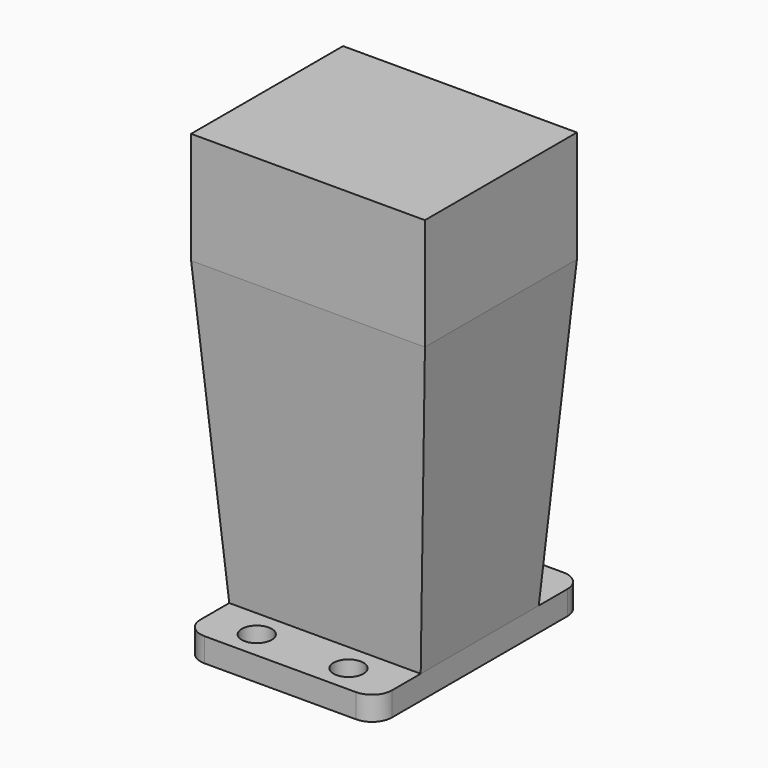
from build123d import *

# Parameters (mm, degrees)
F0_W     = 48
F0_H     = 65
F1_DEPTH = 6
F2_W     = 24
F2_H     = 18.5
F3_DEPTH = 76
F3_TAPER = -4
F4_DEPTH = 28
F5_W     = 47
F5_H     = 24
F6_DEPTH = 43
F8_R     = 3.75
F7_R     = 3.75
F9_DEPTH = 25
F10_R    = 5


with BuildPart() as f1:
    # F0 (on Top) → F1 (new body)
    with BuildSketch(Plane.XY):
        with Locations((-24, 32.5)):
            Rectangle(F0_W, F0_H)
    extrude(amount=F1_DEPTH)

    # F2 (on face) → F3 (join)
    with BuildSketch(Plane.XY.offset(6)):
        with Locations((-12, 41.75)):
            Rectangle(F2_W, F2_H)
        with Locations((-36, 41.75)):
            Rectangle(F2_W, F2_H)
        with Locations((-36, 23.25)):
            Rectangle(F2_W, F2_H)
        with Locations((-12, 23.25)):
            Rectangle(F2_W, F2_H)
    extrude(amount=F3_DEPTH, taper=F3_TAPER)

    # F4 (add): a face of the model
    f4_faces = [f1.faces().sort_by_distance(p)[0] for p in [
        (-24, 32.5, 82),
    ]]
    extrude(f4_faces, amount=F4_DEPTH)

    # F5 (on face) → F6 (cut)
    with BuildSketch(Plane(origin=(0, 56.3144377077, 0), x_dir=(-1, 0, 0), z_dir=(0, 1, 0))):
        with Locations((24, 94)):
            Rectangle(F5_W, F5_H)
    extrude(amount=-F6_DEPTH, mode=Mode.SUBTRACT)

    # F8 (on face) + F7 (on face) → F9 (cut)
    with BuildSketch(Plane.XY.offset(6)):
        with Locations((-35.5, 7)):
            Circle(F8_R)
        with Locations((-12.5, 7)):
            Circle(F8_R)
    with BuildSketch(Plane.XY.offset(6)):
        with Locations((-12.5, 58)):
            Circle(F7_R)
        with Locations((-35.5, 58)):
            Circle(F7_R)
    extrude(amount=-F9_DEPTH, mode=Mode.SUBTRACT)

    # F10
    f10_edges = [f1.edges().sort_by_distance(p)[0] for p in [
        (-48, 0, 3),
        (0, 0, 3),
        (0, 65, 3),
        (-48, 65, 3),
    ]]
    fillet(f10_edges, radius=F10_R)


solid = f1.part
